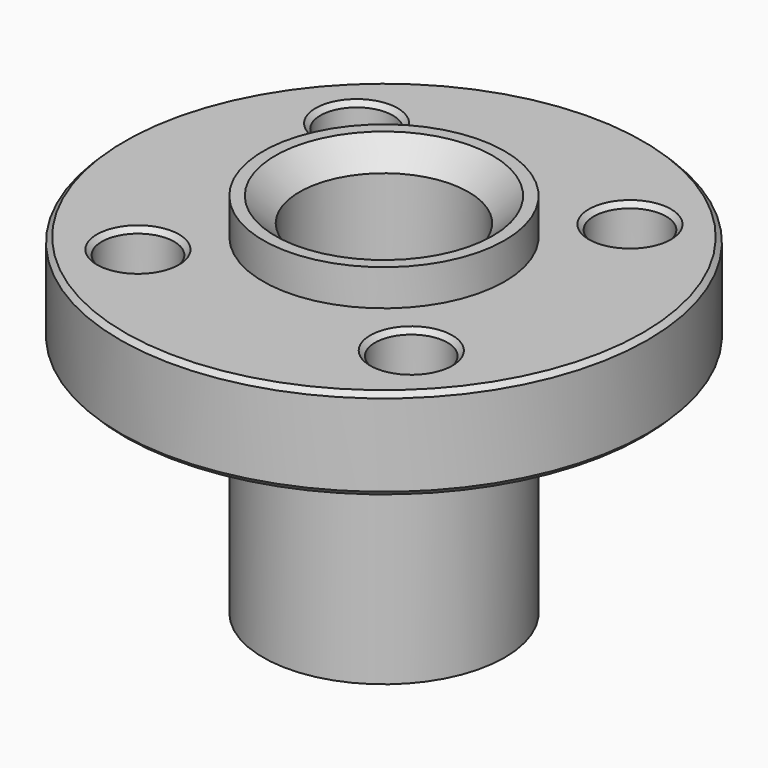
from build123d import *

# Parameters (mm, degrees)
F0_R     = 10.925
F0_R_2   = 1.5
F0_R_3   = 5
F1_DEPTH = 3.8
F0_R_4   = 3.5
F2_DEPTH = 5.3
F3_DEPTH = 9.9
F4_SIZE  = 1
F5_SIZE  = 0.2


with BuildPart() as f1:
    # F0 (on Top) → F1 (new body)
    with BuildSketch(Plane.XY):
        Circle(F0_R)
        with Locations((-5.656854, -5.656854)):
            Circle(F0_R_2, mode=Mode.SUBTRACT)
        with Locations((5.656854, -5.656854)):
            Circle(F0_R_2, mode=Mode.SUBTRACT)
        with Locations((-5.656854, 5.656854)):
            Circle(F0_R_2, mode=Mode.SUBTRACT)
        Circle(F0_R_3, mode=Mode.SUBTRACT)
        with Locations((5.656854, 5.656854)):
            Circle(F0_R_2, mode=Mode.SUBTRACT)
    extrude(amount=F1_DEPTH)

    # F0 (on Top) → F2 (join)
    with BuildSketch(Plane.XY):
        Circle(F0_R_3)
        Circle(F0_R_4, mode=Mode.SUBTRACT)
    extrude(amount=F2_DEPTH)

    # F0 (on Top) → F3 (join)
    with BuildSketch(Plane.XY):
        Circle(F0_R_3)
        Circle(F0_R_4, mode=Mode.SUBTRACT)
    extrude(amount=-F3_DEPTH)

    # F4
    f4_edges = [f1.edges().sort_by_distance(p)[0] for p in [
        (-3.5, 0, 5.3),
        (-3.5, 0, -9.9),
    ]]
    chamfer(f4_edges, length=F4_SIZE)

    # F5
    f5_edges = [f1.edges().sort_by_distance(p)[0] for p in [
        (-7.156854, 5.656854, 3.8),
        (-7.156854, -5.656854, 3.8),
        (4.156854, -5.656854, 3.8),
        (4.156854, 5.656854, 3.8),
        (-10.925, 0, 3.8),
        (-10.925, 0, 0),
    ]]
    chamfer(f5_edges, length=F5_SIZE)


solid = f1.part
